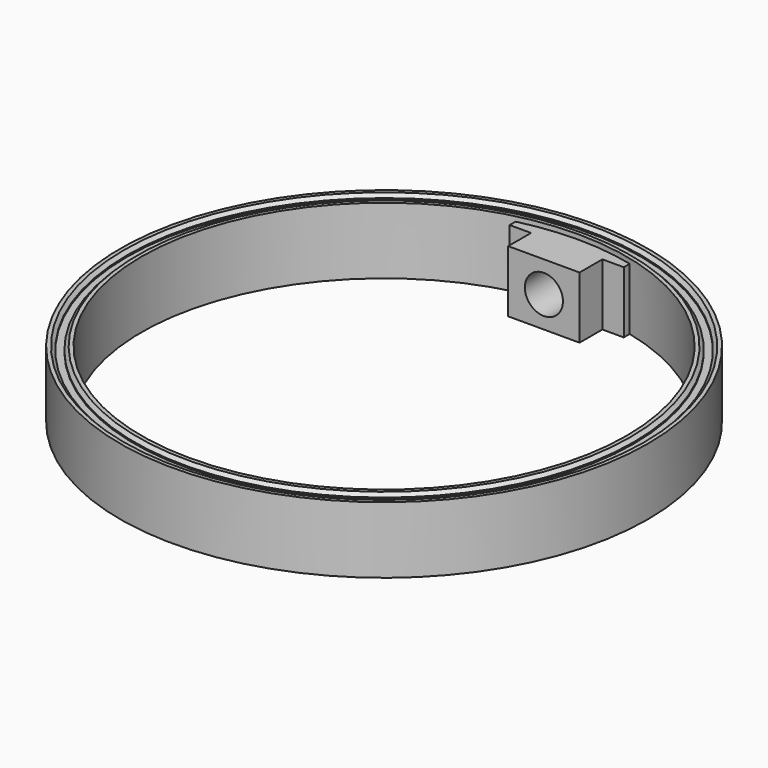
from build123d import *

# Parameters (mm, degrees)
SKETCH_R        = 55.5
SKETCH_R_2      = 51
PAD_DEPTH       = 14
SKETCH001_R     = 54
SKETCH001_R_2   = 52.5
POCKET_DEPTH    = 1
SKETCH003_W     = 15
SKETCH003_H     = 13
PAD001_DEPTH    = 10
SKETCH004_W     = 24
SKETCH004_H     = 13
PAD002_DEPTH    = 4
SKETCH002_R     = 4
POCKET001_DEPTH = 55.501
CHAMFER_SIZE    = 0.7
CHAMFER001_SIZE = 0.7


with BuildPart() as part:
    # Sketch → Pad (new body)
    with BuildSketch(Plane.XY):
        Circle(SKETCH_R)
        Circle(SKETCH_R_2, mode=Mode.SUBTRACT)
    extrude(amount=PAD_DEPTH)

    # Sketch001 (on Face4 of Pad) → Pocket (cut)
    with BuildSketch(Plane.XY.offset(14)):
        Circle(SKETCH001_R)
        Circle(SKETCH001_R_2, mode=Mode.SUBTRACT)
    extrude(amount=-POCKET_DEPTH, mode=Mode.SUBTRACT)

    # Sketch003 → Pad001 (join)
    with BuildSketch(Plane.XZ.offset(-52)):
        with Locations((0, 6.5)):
            Rectangle(SKETCH003_W, SKETCH003_H)
    extrude(amount=PAD001_DEPTH)

    # Sketch004 → Pad002 (join)
    with BuildSketch(Plane.XZ.offset(-52)):
        with Locations((0, 6.5)):
            Rectangle(SKETCH004_W, SKETCH004_H)
    extrude(amount=PAD002_DEPTH)

    # Sketch002 → Pocket001 (cut, through all)
    with BuildSketch(Plane.XZ):
        with Locations((0, 6.5)):
            Circle(SKETCH002_R)
    extrude(amount=-POCKET001_DEPTH, mode=Mode.SUBTRACT)

    # Chamfer
    chamfer_edges = [part.edges().sort_by_distance(p)[0] for p in [
        (-52.5, 0, 14),
    ]]
    chamfer(chamfer_edges, length=CHAMFER_SIZE)

    # Chamfer001
    chamfer001_edges = [part.edges().sort_by_distance(p)[0] for p in [
        (-54, 0, 14),
    ]]
    chamfer(chamfer001_edges, length=CHAMFER001_SIZE)


solid = part.part
